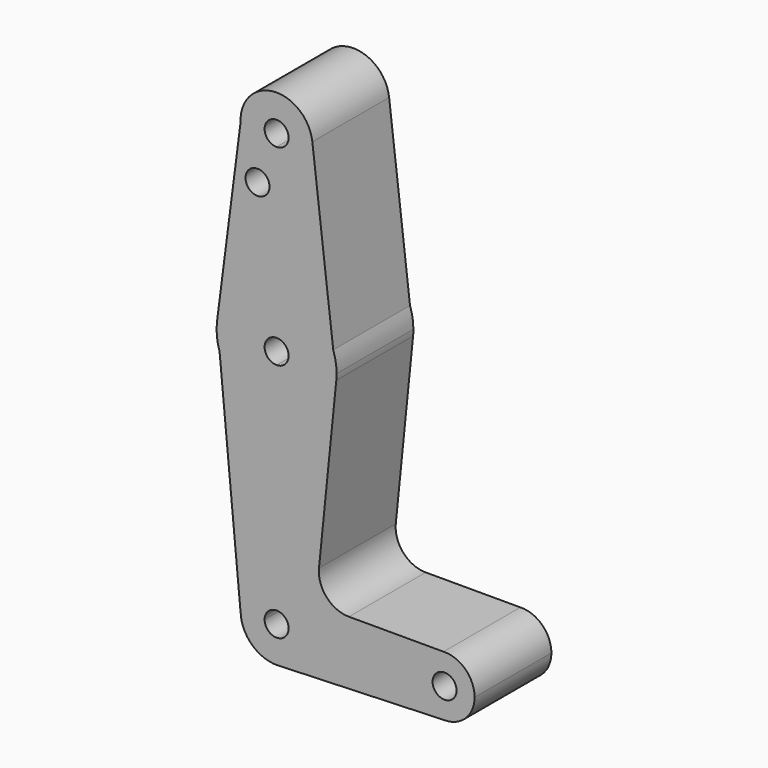
from build123d import *

# Parameters (mm, degrees)
F0_R     = 3.175
F1_DEPTH = 25.4


with BuildPart() as f1:
    # F0 (on Front) → F1 (new body)
    with BuildSketch(Plane.XZ):
        with BuildLine():
            Line((3.175, 0), (9.5250011456, 0))
            ThreePointArc((9.5250011456, 0), (6.7351929009, 6.7351929009), (0, 9.5250011456))
            ThreePointArc((0, 9.5250011456), (-6.7351929009, 6.7351929009), (-9.5250011456, 0))
            Line((-9.5250011456, 0), (-3.175, 0))
            ThreePointArc((-3.175, 0), (-2.2450640303, 2.2450640303), (0, 3.175))
            ThreePointArc((0, 3.175), (2.2450640303, 2.2450640303), (3.175, 0))
        make_face()
        with BuildLine():
            Line((36.5125, 0), (9.5250011456, 0))
            ThreePointArc((9.5250011456, 0), (6.8547885306, -6.6134348885), (0.3412708013, -9.5188854948))
            Line((0.3412708013, -9.5188854948), (44.45, -7.9375))
            ThreePointArc((44.45, -7.9375), (38.8373399243, -5.6126600757), (36.5125, 0))
        make_face()
        with BuildLine():
            ThreePointArc((0.3412708013, -9.5188854948), (6.8547885306, -6.6134348885), (9.5250011456, 0))
            Line((9.5250011456, 0), (3.175, 0))
            ThreePointArc((3.175, 0), (0, -3.175), (-3.175, 0))
            Line((-3.175, 0), (-9.5250011456, 0))
            ThreePointArc((-9.5250011456, 0), (-6.6134348885, -6.8547885306), (0.3412708013, -9.5188854948))
        make_face()
        with BuildLine():
            ThreePointArc((0, 9.5250011456), (6.7351929009, 6.7351929009), (9.5250011456, 0))
            Line((9.5250011456, 0), (36.5125, 0))
            ThreePointArc((36.5125, 0), (38.7376529701, 5.5111702623), (44.1655387804, 7.9324011538))
            Line((44.1655387804, 7.9324011538), (19.1244435351, 7.9324011538))
            ThreePointArc((19.1244435351, 7.9324011538), (13.2263717945, 10.5517072529), (11.2147067564, 16.6836904943))
            Line((11.2147067564, 16.6836904943), (15.7942028329, 61.9003807099))
            ThreePointArc((15.7942028329, 61.9003807099), (10.6447561919, 51.7227001985), (0, 47.625))
            Line((0, 47.625), (0, 9.5250011456))
        make_face()
        with BuildLine():
            ThreePointArc((-9.5250011456, 0), (-6.7351929009, 6.7351929009), (0, 9.5250011456))
            Line((0, 9.5250011456), (0, 47.625))
            ThreePointArc((0, 47.625), (-9.318815443, 50.647945544), (-15.0886202884, 58.5655129148))
            Line((-15.0886202884, 58.5655129148), (-9.5672373667, 0))
            Line((-9.5672373667, 0), (-9.5250011456, 0))
        make_face()
        with BuildLine():
            ThreePointArc((44.1655387804, 7.9324011538), (38.7376529701, 5.5111702623), (36.5125, 0))
            ThreePointArc((36.5125, 0), (38.8373399243, -5.6126600757), (44.45, -7.9375))
            ThreePointArc((44.45, -7.9375), (50.0626600757, -5.6126600757), (52.3875, 0))
            ThreePointArc((52.3875, 0), (49.9611702623, 5.7123470299), (44.1655387804, 7.9324011538))
        make_face()
        with BuildLine():
            ThreePointArc((47.625, 0), (44.45, -3.175), (41.275, 0))
            ThreePointArc((41.275, 0), (44.45, 3.175), (47.625, 0))
        make_face(mode=Mode.SUBTRACT)
        with BuildLine():
            Line((0, 60.325), (0, 47.625))
            ThreePointArc((0, 47.625), (10.6447561919, 51.7227001985), (15.7942028329, 61.9003807099))
            Line((15.7942028329, 61.9003807099), (14.9842264969, 68.7429553964))
            ThreePointArc((14.9842264969, 68.7429553964), (9.1865039074, 76.4469599118), (0, 79.375))
            Line((0, 79.375), (0, 66.675))
            ThreePointArc((0, 66.675), (2.2450640303, 65.7450640303), (3.175, 63.5))
            ThreePointArc((3.175, 63.5), (2.2450640303, 61.2549359697), (0, 60.325))
        make_face()
        with BuildLine():
            ThreePointArc((-15.0886202884, 58.5655129148), (-9.318815443, 50.647945544), (0, 47.625))
            Line((0, 47.625), (0, 60.325))
            ThreePointArc((0, 60.325), (-3.175, 63.5), (0, 66.675))
            Line((0, 66.675), (0, 79.375))
            ThreePointArc((0, 79.375), (-10.4839804596, 75.4206450632), (-15.7449839255, 65.5275862959))
            Line((-15.7449839255, 65.5275862959), (-15.0886202884, 58.5655129148))
        make_face()
        with BuildLine():
            ThreePointArc((-15.7449839255, 65.5275862959), (-15.8049170717, 62.0099592771), (-15.0886202884, 58.5655129148))
            Line((-15.0886202884, 58.5655129148), (-15.7449839255, 65.5275862959))
        make_face()
        with BuildLine():
            Line((14.9842264969, 68.7429553964), (15.7942028329, 61.9003807099))
            ThreePointArc((15.7942028329, 61.9003807099), (15.8547878411, 62.6991707336), (15.875, 63.5))
            ThreePointArc((15.875, 63.5), (15.6507223578, 66.1590439411), (14.9842264969, 68.7429553964))
        make_face()
        with BuildLine():
            Line((-9.5163869901, 113.8950263525), (-15.7449839255, 65.5275862959))
            ThreePointArc((-15.7449839255, 65.5275862959), (-10.4839804596, 75.4206450632), (0, 79.375))
            Line((0, 79.375), (0, 104.775))
            ThreePointArc((0, 104.775), (-6.5904571544, 107.4231184759), (-9.5163869901, 113.8950263525))
        make_face()
        with Locations((-5.047283601, 101.2639179826)):
            Circle(F0_R, mode=Mode.SUBTRACT)
        with BuildLine():
            ThreePointArc((0, 79.375), (9.1865039074, 76.4469599118), (14.9842264969, 68.7429553964))
            Line((14.9842264969, 68.7429553964), (9.4589602299, 115.4196858346))
            ThreePointArc((9.4589602299, 115.4196858346), (9.5084757241, 114.8608158387), (9.525, 114.3))
            ThreePointArc((9.525, 114.3), (6.7351920908, 107.5648079092), (0, 104.775))
            Line((0, 104.775), (0, 79.375))
        make_face()
        with BuildLine():
            ThreePointArc((9.4589602299, 115.4196858346), (-0.7628702985, 123.7944011874), (-9.5163869901, 113.8950263525))
            ThreePointArc((-9.5163869901, 113.8950263525), (-6.5904571544, 107.4231184759), (0, 104.775))
            ThreePointArc((0, 104.775), (6.7351920908, 107.5648079092), (9.525, 114.3))
            ThreePointArc((9.525, 114.3), (9.5084757241, 114.8608158387), (9.4589602299, 115.4196858346))
        make_face()
        with BuildLine():
            ThreePointArc((3.175, 114.3), (2.2450640303, 112.0549359697), (0, 111.125))
            ThreePointArc((0, 111.125), (-2.2450640303, 116.5450640303), (3.175, 114.3))
        make_face(mode=Mode.SUBTRACT)
    extrude(amount=F1_DEPTH)


solid = f1.part
